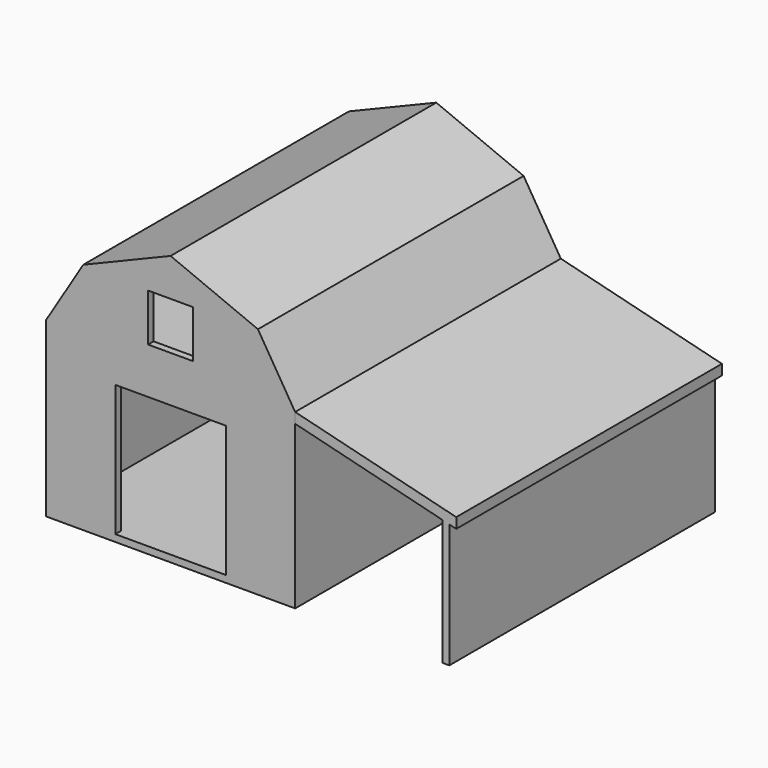
from build123d import *

# Parameters (mm, degrees)
F0_W      = 3657.6
F0_H      = 4876.8
F1_DEPTH  = 101.6
F2_W      = 3657.6
F2_H      = 4876.8
F2_W_2    = 3454.4
F2_H_2    = 4673.6
F3_DEPTH  = 2438.4
F4_W      = 812.8
F4_H      = 1930.4
F5_DEPTH  = 101.6
F7_DEPTH  = 4876.8
F9_DEPTH  = 101.6
F11_DEPTH = 101.6
F12_W     = 3657.6
F12_H     = 101.6
F13_DEPTH = 4876.8
F15_DEPTH = 4876.8
F18_DEPTH = 4876.8


with BuildPart() as f1:
    # F0 (on Top) → F1 (new body)
    with BuildSketch(Plane.XY):
        Rectangle(F0_W, F0_H)
    extrude(amount=-F1_DEPTH)

    # F2 (on face) → F3 (join)
    with BuildSketch(Plane.XY):
        Rectangle(F2_W, F2_H)
        Rectangle(F2_W_2, F2_H_2, mode=Mode.SUBTRACT)
    extrude(amount=F3_DEPTH)

    # F4 (on face) → F5 (cut)
    with BuildSketch(Plane.XZ.offset(2438.4)):
        with Locations((-406.4, 965.2)):
            Rectangle(F4_W, F4_H)
        with Locations((406.4, 965.2)):
            Rectangle(F4_W, F4_H)
    extrude(amount=-F5_DEPTH, mode=Mode.SUBTRACT)

    # F6 (on face) → F7 (join)
    with BuildSketch(Plane.XZ.offset(2438.4)):
        Polygon((-1282.4944257736, 3330.3015232086), (-1828.8, 2438.4), (-1709.655725252, 2438.4), (-1213.1183690764, 3249.0496532277), (0, 3750.851013163), (1213.1183690764, 3249.0496532277), (1709.655725252, 2438.4), (1828.8, 2438.4), (1282.4944257736, 3330.3015232086), (0, 3860.8), align=None)
    extrude(amount=-F7_DEPTH)

    # F8 (on face) → F9 (join)
    with BuildSketch(Plane.XZ.offset(2438.4)):
        Polygon((-1213.1183690764, 3249.0496532277), (-1709.655725252, 2438.4), (1709.655725252, 2438.4), (1213.1183690764, 3249.0496532277), (330.8301568031, 3306.1397075653), (330.8301568031, 2607.426404953), (-330.8301568031, 2607.426404953), (-330.8301568031, 3306.1397075653), align=None)
        Polygon((0, 3750.851013163), (-1213.1183690764, 3249.0496532277), (-330.8301568031, 3306.1397075653), (330.8301568031, 3306.1397075653), (1213.1183690764, 3249.0496532277), align=None)
    extrude(amount=-F9_DEPTH)

    # F10 (on face) → F11 (join)
    with BuildSketch(Plane(origin=(0, 2438.4, 0), x_dir=(-1, 0, 0), z_dir=(0, 1, 0))):
        Polygon((-1213.1183690764, 3249.0496532277), (-1709.655725252, 2438.4), (1709.655725252, 2438.4), (1213.1183690764, 3249.0496532277), (0, 3750.851013163), align=None)
    extrude(amount=-F11_DEPTH)

    # F12 (on face) → F13 (join)
    with BuildSketch(Plane.XZ.offset(2438.4)):
        with Locations((0, 2387.6)):
            Rectangle(F12_W, F12_H)
    extrude(amount=-F13_DEPTH)


with BuildPart() as f15:
    # F14 (on face) → F15 (new body)
    with BuildSketch(Plane.XZ.offset(2438.4)):
        Polygon((4194.7690989514, 1848.4976497698), (1828.8, 2438.4), (1828.8, 2286), (4194.7690989514, 1696.0976497698), align=None)
    extrude(amount=-F15_DEPTH)


with BuildPart() as f18:
    # F17 (on face) → F18 (new body)
    with BuildSketch(Plane.XZ.offset(2438.4)):
        Polygon((4194.7690989514, 1848.4976497698), (1828.8, 2438.4), (1828.8, 2286), (3991.5690989514, 1746.7610999475), (4093.1690989514, 1721.4293748586), (4194.7690989514, 1696.0976497698), align=None)
        Polygon((4093.1690989514, 1721.4293748586), (3991.5690989514, 1746.7610999475), (3991.5690989514, -101.6), (4093.1690989514, -101.6), align=None)
    extrude(amount=-F18_DEPTH)


solid = Compound([f1.part, f18.part])
